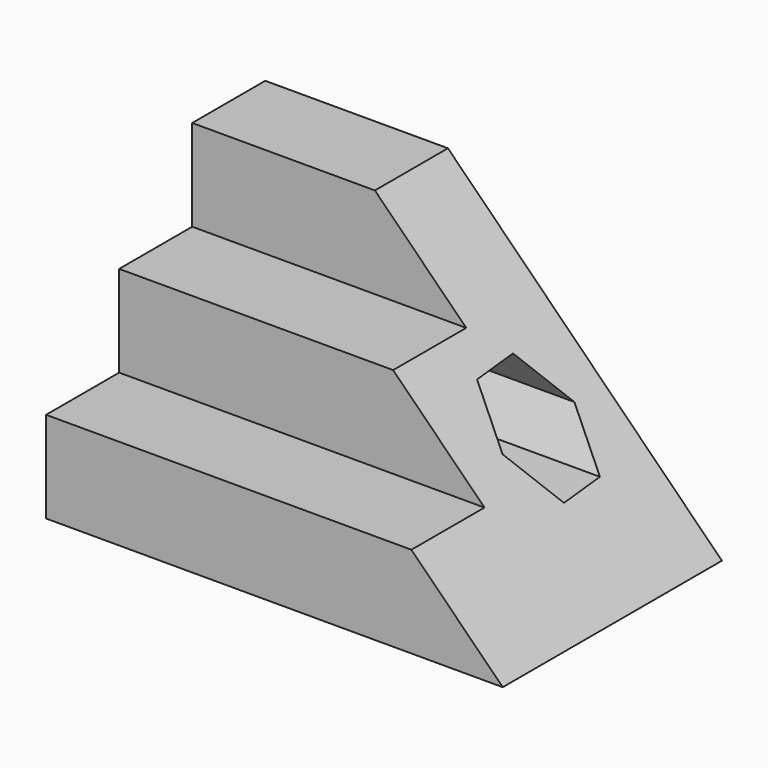
from build123d import *

# Parameters (mm, degrees)
F1_DEPTH = 100
F3_DEPTH = 60.001
F5_DEPTH = 100.001


with BuildPart() as f1:
    # F0 (on Right) → F1 (new body)
    with BuildSketch(Plane.YZ):
        Polygon((0, 20), (0, 0), (60, 0), (60, 60), (40, 60), (40, 40), (20, 40), (20, 20), align=None)
    extrude(amount=F1_DEPTH)

    # F2 (on face) → F3 (cut, through all)
    with BuildSketch(Plane(origin=(0, 60, 0), x_dir=(-1, 0, 0), z_dir=(0, 1, 0))):
        Polygon((-100, 60), (-100, 0), (-40.003979, 60), align=None)
    extrude(amount=-F3_DEPTH, mode=Mode.SUBTRACT)

    # F4 (on face) → F5 (cut, through all)
    with BuildSketch(Plane(origin=(0, 0, 0), x_dir=(0, -1, 0), z_dir=(-1, 0, 0))):
        Polygon((-30.586883, 24.511646), (-35.370231, 33.922151), (-45.91164, 34.484902), (-51.669702, 25.63715), (-46.886355, 16.226646), (-36.344945, 15.663894), align=None)
    extrude(amount=-F5_DEPTH, mode=Mode.SUBTRACT)


solid = f1.part
